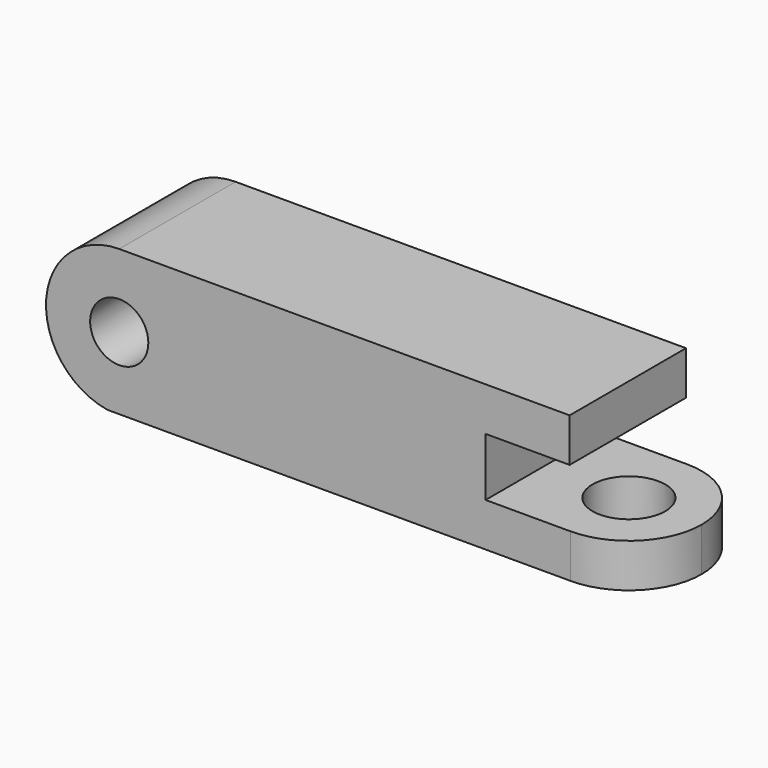
from build123d import *

# Parameters (mm, degrees)
F0_R     = 6.35
F1_DEPTH = 31.75
F2_R     = 7.9375
F3_DEPTH = 9.525
F4_DEPTH = 9.525


with BuildPart() as f1:
    # F0 (on Front) → F1 (new body)
    with BuildSketch(Plane.XZ):
        with BuildLine():
            ThreePointArc((-45.625926, 31.75), (-61.553538, 17.067408), (-48.212963, 0))
            Line((-48.212963, 0), (52.916662, 0))
            Line((52.916662, 0), (52.916662, 9.525))
            Line((52.916662, 9.525), (34.337035, 9.525))
            Line((34.337035, 9.525), (34.337035, 22.225))
            Line((34.337035, 22.225), (52.681481, 22.225))
            Line((52.681481, 22.225), (52.681481, 31.75))
            Line((52.681481, 31.75), (-45.625926, 31.75))
        make_face()
        with Locations((-45.625926, 15.769602)):
            Circle(F0_R, mode=Mode.SUBTRACT)
    extrude(amount=-F1_DEPTH)

    # F2 (on Top) → F3 (join, through all)
    with BuildSketch(Plane.XY):
        with BuildLine():
            ThreePointArc((52.916662, 31.75), (37.041662, 15.875), (52.916662, 0))
            ThreePointArc((52.916662, 0), (64.141982, 4.64968), (68.791662, 15.875))
            ThreePointArc((68.791662, 15.875), (64.141982, 27.10032), (52.916662, 31.75))
        make_face()
        with Locations((52.916662, 15.875)):
            Circle(F2_R, mode=Mode.SUBTRACT)
    extrude(amount=F3_DEPTH)

    # F2 (on Top) → F4 (cut, through all)
    with BuildSketch(Plane.XY):
        with Locations((52.916662, 15.875)):
            Circle(F2_R)
    extrude(amount=F4_DEPTH, mode=Mode.SUBTRACT)


solid = f1.part
